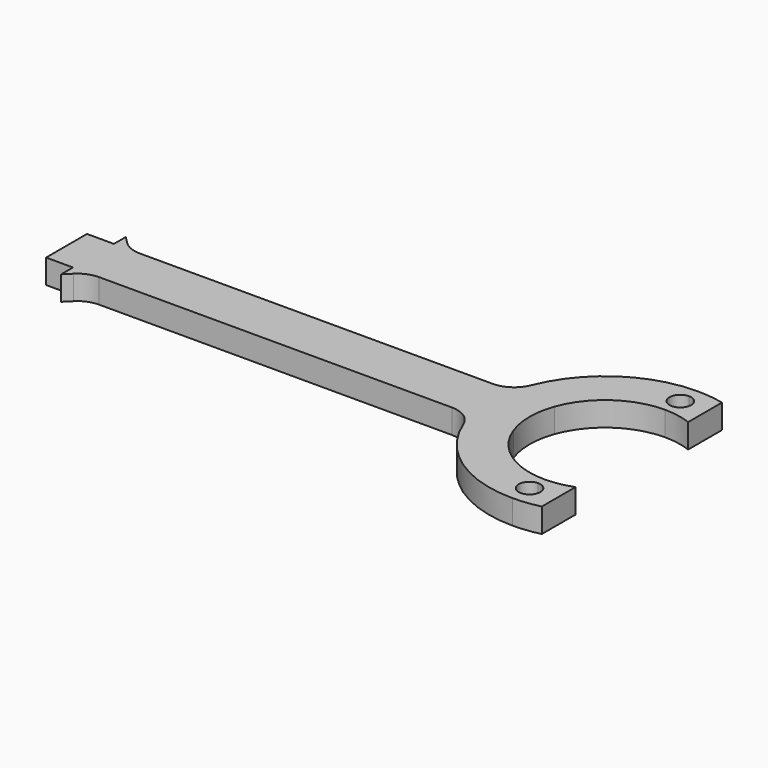
from build123d import *

# Parameters (mm, degrees)
F0_W     = 5
F0_H     = 9.5
F1_DEPTH = 4.5
F2_R     = 5


with BuildPart() as f1:
    # F0 (on Top) → F1 (new body)
    with BuildSketch(Plane.XY):
        with Locations((-47.5, 0)):
            Rectangle(F0_W, F0_H)
        with BuildLine():
            Line((36.8304328089, 4.75), (29.0312732862, 4.75))
            ThreePointArc((29.0312732862, 4.75), (28.5, 0), (29.0312732862, -4.75))
            Line((29.0312732862, -4.75), (36.8304328089, -4.75))
            ThreePointArc((36.8304328089, -4.75), (36, 0), (36.8304328089, 4.75))
        make_face()
        with BuildLine():
            ThreePointArc((50, 21.5), (36.5812630997, 16.7984374273), (29.0312732862, 4.75))
            Line((29.0312732862, 4.75), (36.8304328089, 4.75))
            ThreePointArc((36.8304328089, 4.75), (41.9532615303, 11.4564392374), (50, 14))
            Line((50, 14), (50, 15.5))
            ThreePointArc((50, 15.5), (48, 17.5), (50, 19.5))
            Line((50, 19.5), (50, 21.5))
        make_face()
        with BuildLine():
            Line((36.8304328089, -4.75), (29.0312732862, -4.75))
            ThreePointArc((29.0312732862, -4.75), (36.5812630997, -16.7984374273), (50, -21.5))
            Line((50, -21.5), (50, -19.5))
            ThreePointArc((50, -19.5), (48, -17.5), (50, -15.5))
            Line((50, -15.5), (50, -14))
            ThreePointArc((50, -14), (41.9532615303, -11.4564392374), (36.8304328089, -4.75))
        make_face()
        with BuildLine():
            Line((50, -19.5), (50, -21.5))
            ThreePointArc((50, -21.5), (52.5173141614, -21.3521223632), (55, -20.9105236663))
            Line((55, -20.9105236663), (55, -13.0766968306))
            ThreePointArc((55, -13.0766968306), (52.542267135, -13.7672392953), (50, -14))
            Line((50, -14), (50, -15.5))
            ThreePointArc((50, -15.5), (51.4142135624, -16.0857864376), (52, -17.5))
            ThreePointArc((52, -17.5), (51.4142135624, -18.9142135624), (50, -19.5))
        make_face()
        with BuildLine():
            ThreePointArc((55, 20.9105236663), (52.5173141614, 21.3521223632), (50, 21.5))
            Line((50, 21.5), (50, 19.5))
            ThreePointArc((50, 19.5), (51.4142135624, 18.9142135624), (52, 17.5))
            ThreePointArc((52, 17.5), (51.4142135624, 16.0857864376), (50, 15.5))
            Line((50, 15.5), (50, 14))
            ThreePointArc((50, 14), (52.542267135, 13.7672392953), (55, 13.0766968306))
            Line((55, 13.0766968306), (55, 20.9105236663))
        make_face()
        with BuildLine():
            Line((29.0312732862, 4.75), (-42.25, 4.75))
            Line((-42.25, 4.75), (-37.5, 0))
            Line((-37.5, 0), (-42.25, -4.75))
            Line((-42.25, -4.75), (29.0312732862, -4.75))
            ThreePointArc((29.0312732862, -4.75), (28.5, 0), (29.0312732862, 4.75))
        make_face()
        Polygon((-42.25, 4.75), (-45, 4.75), (-45, -4.75), (-42.25, -4.75), (-37.5, 0), align=None)
        Polygon((-45, 7.5), (-45, 4.75), (-42.25, 4.75), align=None)
        Polygon((-42.25, -4.75), (-45, -4.75), (-45, -7.5), align=None)
    extrude(amount=F1_DEPTH)

    # F2
    f2_edges = [f1.edges().sort_by_distance(p)[0] for p in [
        (29.031273, -4.75, 2.25),
        (29.031273, 4.75, 2.25),
        (-42.25, -4.75, 2.25),
        (-42.25, 4.75, 2.25),
    ]]
    fillet(f2_edges, radius=F2_R)


solid = f1.part
